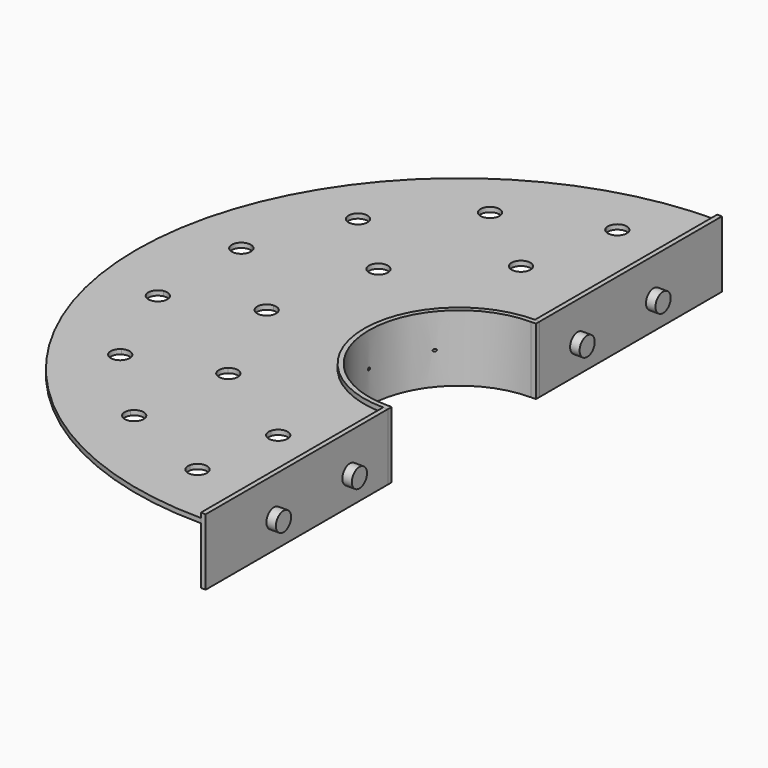
from build123d import *

# Parameters (mm, degrees)
F0_R           = 431.8
F0_R_2         = 127
F1_DEPTH       = 6.35
F3_DEPTH       = 25.4
F4_W           = 304.8
F4_H           = 88.9
F5_DEPTH       = 6.35
F7_W           = 304.8
F7_H           = 88.9
F8_DEPTH       = 6.35
F10_DEPTH      = 6.35
F10_DEPTH_BACK = 82.55
F12_DEPTH      = 12.7
F14_DEPTH      = 431.801
F15_R          = 12.7
F16_DEPTH      = 82.5510001


with BuildPart() as f1:
    # F0 (on Top) → F1 (new body)
    with BuildSketch(Plane.XY):
        Circle(F0_R)
        Circle(F0_R_2, mode=Mode.SUBTRACT)
    extrude(amount=F1_DEPTH)

    # F2 (on face) → F3 (cut)
    with BuildSketch(Plane.XY.offset(6.35)):
        with BuildLine():
            Line((0, 431.8), (0, 127))
            ThreePointArc((0, 127), (89.8025612107, 89.8025612107), (127, 0))
            ThreePointArc((127, 0), (89.8025612107, -89.8025612107), (0, -127))
            Line((0, -127), (0, -431.8))
            ThreePointArc((0, -431.8), (305.3287081164, -305.3287081164), (431.8, 0))
            ThreePointArc((431.8, 0), (305.3287081164, 305.3287081164), (0, 431.8))
        make_face()
    extrude(amount=-F3_DEPTH, mode=Mode.SUBTRACT)

    # F4 (on face) → F5 (join)
    with BuildSketch(Plane.YZ):
        with Locations((-279.4, -31.75)):
            Rectangle(F4_W, F4_H)
    extrude(amount=F5_DEPTH)

    # F7 (on face) → F8 (join)
    with BuildSketch(Plane.YZ):
        with Locations((279.4, -31.75)):
            Rectangle(F7_W, F7_H)
    extrude(amount=F8_DEPTH)

    # F11 (on face) → F12 (join)
    with BuildSketch(Plane.YZ.offset(6.35)):
        with BuildLine():
            ThreePointArc((-203.2, -38.1), (-190.5, -50.8), (-177.8, -38.1))
            ThreePointArc((-177.8, -38.1), (-190.5, -25.4), (-203.2, -38.1))
        make_face()
        with BuildLine():
            ThreePointArc((-330.2, -38.1), (-317.5, -50.8), (-304.8, -38.1))
            ThreePointArc((-304.8, -38.1), (-317.5, -25.4), (-330.2, -38.1))
        make_face()
        with BuildLine():
            ThreePointArc((203.2, -38.1), (190.5, -25.4), (177.8, -38.1))
            ThreePointArc((177.8, -38.1), (190.5, -50.8), (203.2, -38.1))
        make_face()
        with BuildLine():
            ThreePointArc((330.2, -38.1), (317.5, -25.4), (304.8, -38.1))
            ThreePointArc((304.8, -38.1), (317.5, -50.8), (330.2, -38.1))
        make_face()
    extrude(amount=F12_DEPTH)

    # F15 (on face) → F16 (cut, through all)
    with BuildSketch(Plane.XY.offset(6.35)):
        with BuildLine():
            ThreePointArc((-54.7879363165, 349.1371335805), (-54.8354662803, 350.2348594036), (-54.9777004083, 351.324368712))
            ThreePointArc((-54.9777004083, 351.324368712), (-67.4879363165, 349.1371335805), (-79.912090673, 346.504570471))
            ThreePointArc((-79.912090673, 346.504570471), (-66.1644485621, 336.5062832463), (-54.7879363165, 349.1371335805))
        make_face()
        with BuildLine():
            ThreePointArc((-58.5582735905, -348.3871668675), (-69.866532466, -335.7636548109), (-83.6532431405, -345.6204486212))
            ThreePointArc((-83.6532431405, -345.6204486212), (-71.2582735905, -348.3871668675), (-58.7724133851, -350.709513726))
            ThreePointArc((-58.7724133851, -350.709513726), (-58.6119218515, -349.5532662182), (-58.5582735905, -348.3871668675))
        make_face()
        with BuildLine():
            ThreePointArc((-58.7724133851, -350.709513726), (-71.2582735905, -348.3871668675), (-83.6532431405, -345.6204486212))
            ThreePointArc((-83.6532431405, -345.6204486212), (-73.8032119371, -360.8295657042), (-58.7724133851, -350.709513726))
        make_face()
        with BuildLine():
            ThreePointArc((-186.4560573011, -294.5984121365), (-195.32833306, -282.4889725485), (-209.5487387396, -287.298948285))
            ThreePointArc((-209.5487387396, -287.298948285), (-199.1560573011, -294.5984121365), (-188.5093502785, -301.5221127059))
            ThreePointArc((-188.5093502785, -301.5221127059), (-186.9801963626, -298.2092860482), (-186.4560573011, -294.5984121365))
        make_face()
        with BuildLine():
            ThreePointArc((-188.5093502785, -301.5221127059), (-199.1560573011, -294.5984121365), (-209.5487387396, -287.298948285))
            ThreePointArc((-209.5487387396, -287.298948285), (-206.2687736447, -305.1197840154), (-188.5093502785, -301.5221127059))
        make_face()
        with BuildLine():
            ThreePointArc((-284.0341366418, -195.9597196989), (-290.6175265801, -184.8297115519), (-303.5423384297, -185.2387874439))
            ThreePointArc((-303.5423384297, -185.2387874439), (-296.7341366418, -195.9597196989), (-289.5474474336, -206.430703331))
            ThreePointArc((-289.5474474336, -206.430703331), (-285.4966780113, -201.8766043123), (-284.0341366418, -195.9597196989))
        make_face()
        with BuildLine():
            ThreePointArc((-289.5474474336, -206.430703331), (-296.7341366418, -195.9597196989), (-303.5423384297, -185.2387874439))
            ThreePointArc((-303.5423384297, -185.2387874439), (-307.3317843961, -202.958281128), (-289.5474474336, -206.430703331))
        make_face()
        with BuildLine():
            ThreePointArc((-336.4371335805, -67.4879363165), (-340.9666955925, -57.7650795817), (-351.324368712, -54.9777004083))
            ThreePointArc((-351.324368712, -54.9777004083), (-349.1371335805, -67.4879363165), (-346.504570471, -79.912090673))
            ThreePointArc((-346.504570471, -79.912090673), (-339.2699264911, -75.483449074), (-336.4371335805, -67.4879363165))
        make_face()
        with BuildLine():
            ThreePointArc((-346.504570471, -79.912090673), (-349.1371335805, -67.4879363165), (-351.324368712, -54.9777004083))
            ThreePointArc((-351.324368712, -54.9777004083), (-361.6063169427, -69.8982197602), (-346.504570471, -79.912090673))
        make_face()
        with BuildLine():
            ThreePointArc((-335.6871668675, 71.2582735905), (-338.4768863032, 79.2003349813), (-345.6204486212, 83.6532431405))
            ThreePointArc((-345.6204486212, 83.6532431405), (-348.3871668675, 71.2582735905), (-350.709513726, 58.7724133851))
            ThreePointArc((-350.709513726, 58.7724133851), (-340.2694025541, 61.4913957602), (-335.6871668675, 71.2582735905))
        make_face()
        with BuildLine():
            ThreePointArc((-350.709513726, 58.7724133851), (-348.3871668675, 71.2582735905), (-345.6204486212, 83.6532431405))
            ThreePointArc((-345.6204486212, 83.6532431405), (-360.8295657042, 73.8032119371), (-350.709513726, 58.7724133851))
        make_face()
        with BuildLine():
            ThreePointArc((-281.8984121365, 199.1560573011), (-283.3291355201, 205.0121143828), (-287.298948285, 209.5487387396))
            ThreePointArc((-287.298948285, 209.5487387396), (-294.5984121365, 199.1560573011), (-301.5221127059, 188.5093502785))
            ThreePointArc((-301.5221127059, 188.5093502785), (-288.5420517291, 187.9931500357), (-281.8984121365, 199.1560573011))
        make_face()
        with BuildLine():
            ThreePointArc((-301.5221127059, 188.5093502785), (-294.5984121365, 199.1560573011), (-287.298948285, 209.5487387396))
            ThreePointArc((-287.298948285, 209.5487387396), (-305.1197840154, 206.2687736447), (-301.5221127059, 188.5093502785))
        make_face()
        with BuildLine():
            ThreePointArc((-183.2597196989, 296.7341366418), (-183.764519011, 300.2791444247), (-185.2387874439, 303.5423384297))
            ThreePointArc((-185.2387874439, 303.5423384297), (-195.9597196989, 296.7341366418), (-206.430703331, 289.5474474336))
            ThreePointArc((-206.430703331, 289.5474474336), (-192.1975057316, 284.6041842073), (-183.2597196989, 296.7341366418))
        make_face()
        with BuildLine():
            ThreePointArc((-206.430703331, 289.5474474336), (-195.9597196989, 296.7341366418), (-185.2387874439, 303.5423384297))
            ThreePointArc((-185.2387874439, 303.5423384297), (-202.958281128, 307.3317843961), (-206.430703331, 289.5474474336))
        make_face()
        with BuildLine():
            ThreePointArc((-79.912090673, 346.504570471), (-67.4879363165, 349.1371335805), (-54.9777004083, 351.324368712))
            ThreePointArc((-54.9777004083, 351.324368712), (-69.8982197602, 361.6063169427), (-79.912090673, 346.504570471))
        make_face()
        with Locations((67.4879363165, -349.1371335805)):
            Circle(F15_R)
        with Locations((195.9597196989, -296.7341366418)):
            Circle(F15_R)
        with Locations((294.5984121365, -199.1560573011)):
            Circle(F15_R)
        with Locations((348.3871668675, -71.2582735905)):
            Circle(F15_R)
        with Locations((349.1371335805, 67.4879363165)):
            Circle(F15_R)
        with Locations((296.7341366418, 195.9597196989)):
            Circle(F15_R)
        with Locations((199.1560573011, 294.5984121365)):
            Circle(F15_R)
        with Locations((71.2582735905, 348.3871668675)):
            Circle(F15_R)
        with BuildLine():
            ThreePointArc((-81.9656170837, 221.9552021965), (-82.1903752083, 224.3339287784), (-82.8566942728, 226.6284603798))
            ThreePointArc((-82.8566942728, 226.6284603798), (-94.6656170837, 221.9552021965), (-106.2123082721, 216.667109667))
            ThreePointArc((-106.2123082721, 216.667109667), (-91.9594184668, 209.5468788188), (-81.9656170837, 221.9552021965))
        make_face()
        with BuildLine():
            ThreePointArc((-41.175901517, -235.2085841879), (-52.2831431847, -222.6088571712), (-66.1763929965, -232.0482188036))
            ThreePointArc((-66.1763929965, -232.0482188036), (-53.875901517, -235.2085841879), (-41.4261693152, -237.717402257))
            ThreePointArc((-41.4261693152, -237.717402257), (-41.2386233496, -236.4692191543), (-41.175901517, -235.2085841879))
        make_face()
        with BuildLine():
            ThreePointArc((-41.4261693152, -237.717402257), (-53.875901517, -235.2085841879), (-66.1763929965, -232.0482188036))
            ThreePointArc((-66.1763929965, -232.0482188036), (-56.7114752606, -247.5879832664), (-41.4261693152, -237.717402257))
        make_face()
        with BuildLine():
            ThreePointArc((-169.1386569128, -158.6202814652), (-176.4303239493, -147.1294183751), (-189.9323473941, -148.8334446733))
            ThreePointArc((-189.9323473941, -148.8334446733), (-181.8386569128, -158.6202814652), (-173.2412582478, -167.9677269021))
            ThreePointArc((-173.2412582478, -167.9677269021), (-170.2094487917, -163.7243502811), (-169.1386569128, -158.6202814652))
        make_face()
        with BuildLine():
            ThreePointArc((-173.2412582478, -167.9677269021), (-181.8386569128, -158.6202814652), (-189.9323473941, -148.8334446733))
            ThreePointArc((-189.9323473941, -148.8334446733), (-191.4091124707, -166.9687172716), (-173.2412582478, -167.9677269021))
        make_face()
        with BuildLine():
            ThreePointArc((-227.6452258365, -21.4444225279), (-231.6507235544, -12.1872291051), (-241.1406006502, -8.7693533405))
            ThreePointArc((-241.1406006502, -8.7693533405), (-240.3452258365, -21.4444225279), (-238.8840747835, -34.0600888837))
            ThreePointArc((-238.8840747835, -34.0600888837), (-230.8624356782, -29.8923033754), (-227.6452258365, -21.4444225279))
        make_face()
        with BuildLine():
            ThreePointArc((-238.8840747835, -34.0600888837), (-240.3452258365, -21.4444225279), (-241.1406006502, -8.7693533405))
            ThreePointArc((-241.1406006502, -8.7693533405), (-252.9949744735, -22.573076337), (-238.8840747835, -34.0600888837))
        make_face()
        with BuildLine():
            ThreePointArc((-194.3480875244, 123.922476946), (-195.9184943853, 130.0398421105), (-200.2413405255, 134.644332909))
            ThreePointArc((-200.2413405255, 134.644332909), (-207.0480875244, 123.922476946), (-213.281294123, 112.8573454285))
            ThreePointArc((-213.281294123, 112.8573454285), (-200.6399569, 112.9577215041), (-194.3480875244, 123.922476946))
        make_face()
        with BuildLine():
            ThreePointArc((-213.281294123, 112.8573454285), (-207.0480875244, 123.922476946), (-200.2413405255, 134.644332909))
            ThreePointArc((-200.2413405255, 134.644332909), (-217.9453552103, 130.4447125277), (-213.281294123, 112.8573454285))
        make_face()
        with BuildLine():
            ThreePointArc((-106.2123082721, 216.667109667), (-94.6656170837, 221.9552021965), (-82.8566942728, 226.6284603798))
            ThreePointArc((-82.8566942728, 226.6284603798), (-99.6480179469, 233.6370548595), (-106.2123082721, 216.667109667))
        make_face()
        with Locations((94.6656170837, -221.9552021965)):
            Circle(F15_R)
        with Locations((207.0480875244, -123.922476946)):
            Circle(F15_R)
        with Locations((240.3452258365, 21.4444225279)):
            Circle(F15_R)
        with Locations((181.8386569128, 158.6202814652)):
            Circle(F15_R)
        with Locations((53.875901517, 235.2085841879)):
            Circle(F15_R)
    extrude(amount=-F16_DEPTH, mode=Mode.SUBTRACT)


with BuildPart() as f10:
    # F9 (on face) → F10 (new body, two sides)
    with BuildSketch(Plane.XY.offset(6.35)) as f10_sk:
        with BuildLine():
            Line((6.35, 127), (0, 127))
            ThreePointArc((0, 127), (-127, 0), (0, -127))
            Line((0, -127), (6.35, -127))
            Line((6.35, -127), (6.35, -120.65))
            Line((6.35, -120.65), (0, -120.65))
            ThreePointArc((0, -120.65), (-120.65, 0), (0, 120.65))
            Line((0, 120.65), (6.35, 120.65))
            Line((6.35, 120.65), (6.35, 127))
        make_face()
    extrude(amount=F10_DEPTH)
    extrude(f10_sk.sketch, amount=-F10_DEPTH_BACK)

    # F13 (on Right) → F14 (cut, through all)
    with BuildSketch(Plane.YZ):
        with BuildLine():
            ThreePointArc((76.2, -34.7345), (77.4123345763, -34.2323345763), (77.9145, -33.02))
            Line((77.9145, -33.02), (76.2, -33.02))
            Line((76.2, -33.02), (76.2, -34.7345))
        make_face()
        with BuildLine():
            Line((76.2, -33.02), (77.9145, -33.02))
            ThreePointArc((77.9145, -33.02), (77.4123345763, -31.8076654237), (76.2, -31.3055))
            Line((76.2, -31.3055), (76.2, -33.02))
        make_face()
        with BuildLine():
            ThreePointArc((-76.2, -34.7345), (-74.9876654237, -34.2323345763), (-74.4855, -33.02))
            Line((-74.4855, -33.02), (-76.2, -33.02))
            Line((-76.2, -33.02), (-76.2, -34.7345))
        make_face()
        with BuildLine():
            Line((-76.2, -33.02), (-74.4855, -33.02))
            ThreePointArc((-74.4855, -33.02), (-74.9876654237, -31.8076654237), (-76.2, -31.3055))
            Line((-76.2, -31.3055), (-76.2, -33.02))
        make_face()
        with BuildLine():
            ThreePointArc((-1.7145, -33.02), (0, -34.7345), (1.7145, -33.02))
            Line((1.7145, -33.02), (-1.7145, -33.02))
        make_face()
        with BuildLine():
            Line((-1.7145, -33.02), (1.7145, -33.02))
            ThreePointArc((1.7145, -33.02), (0, -31.3055), (-1.7145, -33.02))
        make_face()
        with BuildLine():
            Line((76.2, -34.7345), (76.2, -33.02))
            Line((76.2, -33.02), (74.4855, -33.02))
            ThreePointArc((74.4855, -33.02), (74.9876654237, -34.2323345763), (76.2, -34.7345))
        make_face()
        with BuildLine():
            Line((74.4855, -33.02), (76.2, -33.02))
            Line((76.2, -33.02), (76.2, -31.3055))
            ThreePointArc((76.2, -31.3055), (74.9876654237, -31.8076654237), (74.4855, -33.02))
        make_face()
        with BuildLine():
            Line((-76.2, -34.7345), (-76.2, -33.02))
            Line((-76.2, -33.02), (-77.9145, -33.02))
            ThreePointArc((-77.9145, -33.02), (-77.4123345763, -34.2323345763), (-76.2, -34.7345))
        make_face()
        with BuildLine():
            Line((-77.9145, -33.02), (-76.2, -33.02))
            Line((-76.2, -33.02), (-76.2, -31.3055))
            ThreePointArc((-76.2, -31.3055), (-77.4123345763, -31.8076654237), (-77.9145, -33.02))
        make_face()
    extrude(amount=-F14_DEPTH, mode=Mode.SUBTRACT)


solid = Compound([f1.part, f10.part])
